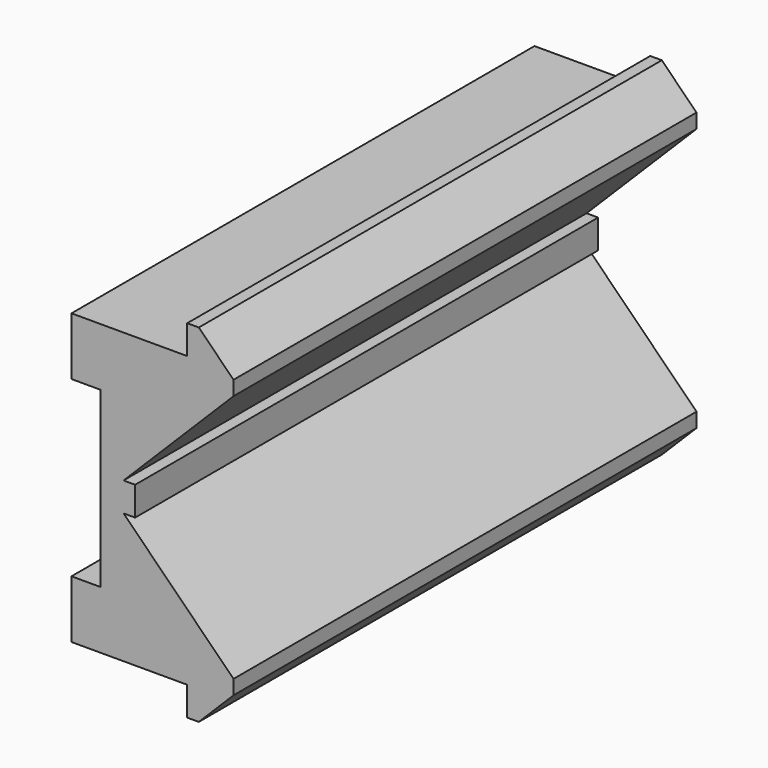
from build123d import *

# Parameters (mm, degrees)
F1_DEPTH = 100


with BuildPart() as f1:
    # F0 (on Front) → F1 (new body)
    with BuildSketch(Plane.XZ):
        Polygon((0, 15), (0, 0), (0, -15), (-5, -15), (-5, -25), (15, -25), (15, -30), (17, -30), (23, -24), (23, -21.5), (4, -2.5), (6, -2.5), (6, 0), (6, 2.5), (4, 2.5), (23, 21.5), (23, 24), (17, 30), (15, 30), (15, 25), (-5, 25), (-5, 15), align=None)
    extrude(amount=F1_DEPTH)


solid = f1.part
